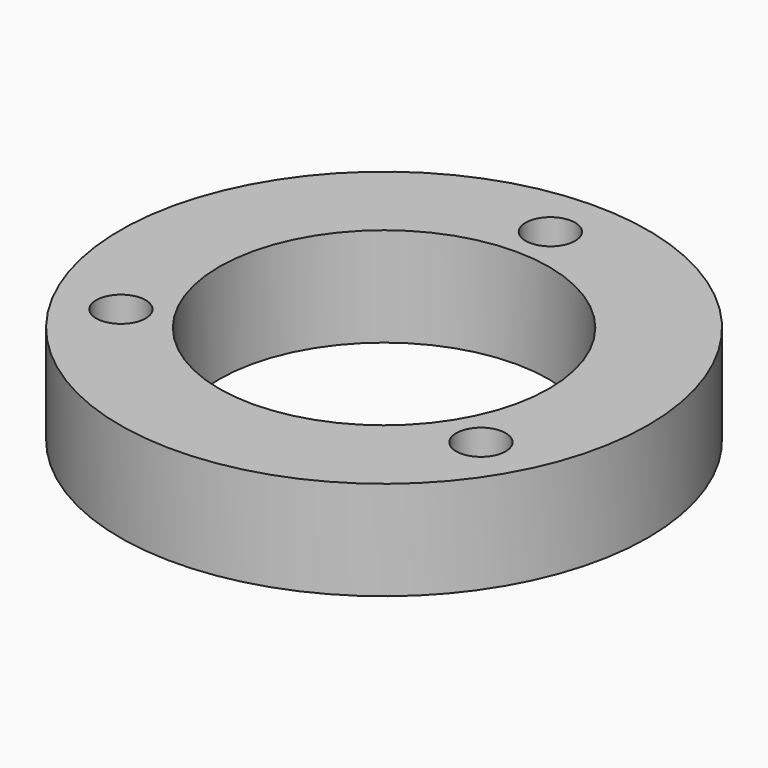
from build123d import *

# Parameters (mm, degrees)
SKETCH_R   = 16
SKETCH_R_2 = 10
SKETCH_R_3 = 1.5
PAD_DEPTH  = 6


with BuildPart() as part:
    # Sketch → Pad (new body)
    with BuildSketch(Plane.XY):
        Circle(SKETCH_R)
        Circle(SKETCH_R_2, mode=Mode.SUBTRACT)
        with Locations((0, 12.6)):
            Circle(SKETCH_R_3, mode=Mode.SUBTRACT)
        with Locations((10.91192, -6.3)):
            Circle(SKETCH_R_3, mode=Mode.SUBTRACT)
        with Locations((-10.91192, -6.3)):
            Circle(SKETCH_R_3, mode=Mode.SUBTRACT)
    extrude(amount=PAD_DEPTH)


solid = part.part
